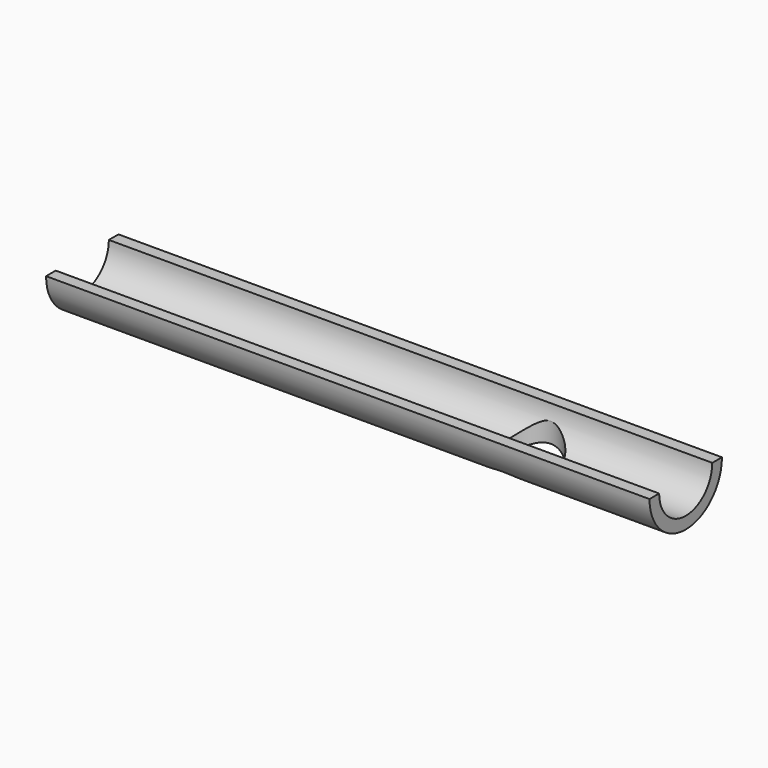
from build123d import *

# Parameters (mm, degrees)
F1_DEPTH = 63.5
F2_T     = -2.54
F3_R     = 6.35
F4_DEPTH = 25.4


with BuildPart() as f1:
    # F0 (on Right) → F1 (new body, symmetric)
    with BuildSketch(Plane.YZ):
        with BuildLine():
            Line((9.525, 0), (-9.525, 0))
            ThreePointArc((-9.525, 0), (0, -9.525), (9.525, 0))
        make_face()
    extrude(amount=F1_DEPTH, both=True)

    # F2
    f2_openings = [f1.faces().sort_by_distance(p)[0] for p in [
        (-63.5, 0, -4.042536),
        (0, 0, 0),
        (63.5, 0, -4.042536),
    ]]
    offset(amount=F2_T, openings=f2_openings)

    # F3 (on Top) → F4 (cut)
    with BuildSketch(Plane.XY):
        with Locations((30.042015313, 0)):
            Circle(F3_R)
    extrude(amount=-F4_DEPTH, mode=Mode.SUBTRACT)


solid = f1.part
